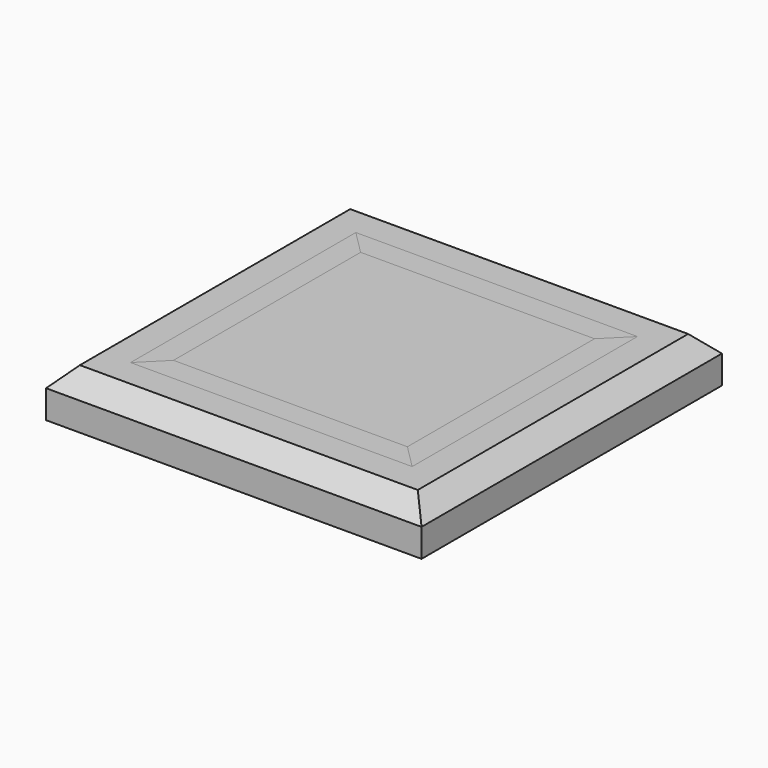
from build123d import *

# Parameters (mm, degrees)
F0_W     = 200
F0_H     = 200
F1_DEPTH = 25
F2_SIZE  = 10
F3_W     = 150
F3_H     = 150
F3_W_2   = 124.6
F3_H_2   = 124.6
F4_DEPTH = 10
F6_DEPTH = 10
F7_DEPTH = 10
F8_DEPTH = 10
F9_DEPTH = 10


with BuildPart() as f1:
    # F0 (on Top) → F1 (new body)
    with BuildSketch(Plane.XY):
        Rectangle(F0_W, F0_H)
    extrude(amount=-F1_DEPTH)

    # F2
    f2_edges = [f1.edges().sort_by_distance(p)[0] for p in [
        (-100, 0, 0),
        (0, 100, 0),
        (0, -100, 0),
        (100, 0, 0),
    ]]
    chamfer(f2_edges, length=F2_SIZE)

    # F3 (on face) → F4 (cut)
    with BuildSketch(Plane.XY):
        Rectangle(F3_W, F3_H)
        Rectangle(F3_W_2, F3_H_2, mode=Mode.SUBTRACT)
    extrude(amount=-F4_DEPTH, mode=Mode.SUBTRACT)


with BuildPart() as f6:
    # F5 (on face) → F6 (new body, through all)
    with BuildSketch(Plane.XY):
        Polygon((-75, -75), (-62.3, -62.3), (-62.3, 62.3), (-75, 75), align=None)
    extrude(amount=-F6_DEPTH)


with BuildPart() as f7:
    # F5 (on face) → F7 (new body, through all)
    with BuildSketch(Plane.XY):
        Polygon((62.3, -62.3), (-62.3, -62.3), (-75, -75), (75, -75), align=None)
    extrude(amount=-F7_DEPTH)


with BuildPart() as f8:
    # F5 (on face) → F8 (new body, through all)
    with BuildSketch(Plane.XY):
        Polygon((62.3, 62.3), (62.3, -62.3), (75, -75), (75, 75), align=None)
    extrude(amount=-F8_DEPTH)


with BuildPart() as f9:
    # F5 (on face) → F9 (new body, through all)
    with BuildSketch(Plane.XY):
        Polygon((-75, 75), (-62.3, 62.3), (62.3, 62.3), (75, 75), align=None)
    extrude(amount=-F9_DEPTH)


solid = Compound([f1.part, f6.part, f7.part, f8.part, f9.part])
